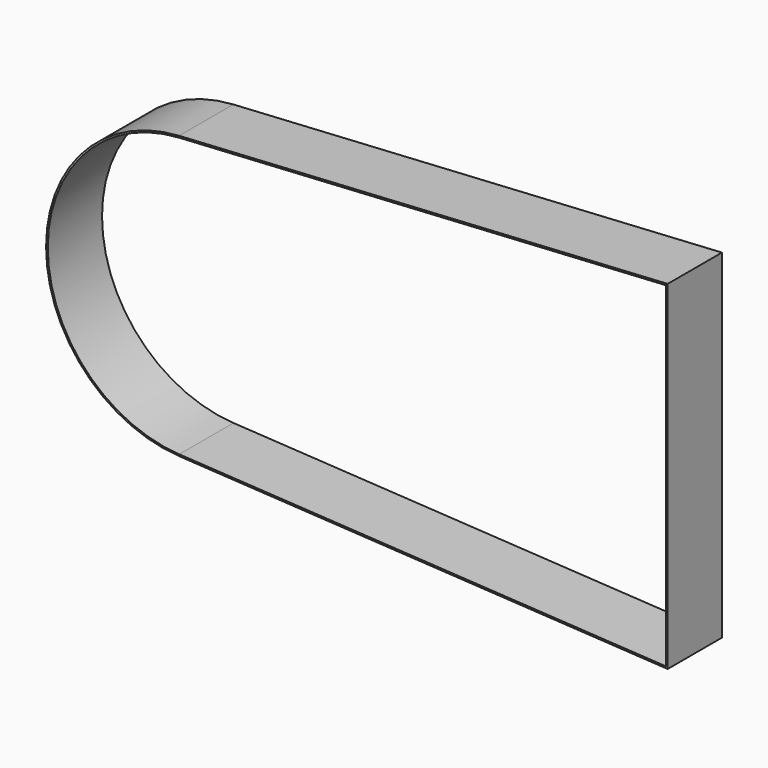
from build123d import *

# Parameters (mm, degrees)
F1_DEPTH = 60


with BuildPart() as f1:
    # F0 (on Front) → F1 (new body)
    with BuildSketch(Plane.XZ):
        with BuildLine():
            Line((0, -150), (0, 0))
            Line((0, 0), (0, 150))
            Line((0, 150), (-432.278096, 124.787937))
            ThreePointArc((-432.278096, 124.787937), (-550, 0), (-432.278096, -124.787937))
            Line((-432.278096, -124.787937), (0, -150))
        make_face()
        with BuildLine():
            Line((-1.5, 148.409965), (-1.5, 0))
            Line((-1.5, 0), (-1.5, -148.409965))
            Line((-1.5, -148.409965), (-432.190758, -123.290482))
            ThreePointArc((-432.190758, -123.290482), (-548.5, 0), (-432.190758, 123.290482))
            Line((-432.190758, 123.290482), (-1.5, 148.409965))
        make_face(mode=Mode.SUBTRACT)
    extrude(amount=F1_DEPTH)


solid = f1.part
